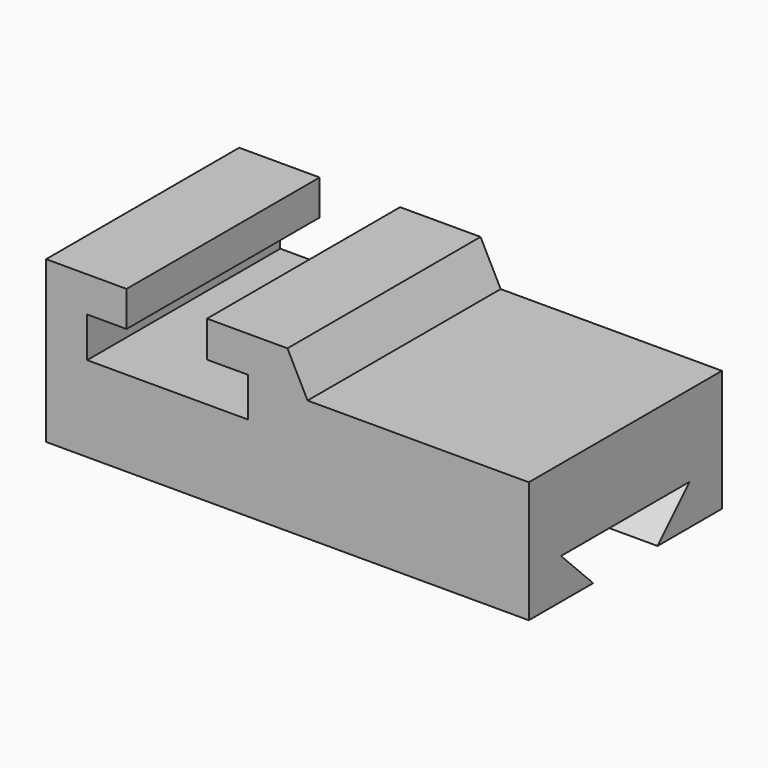
from build123d import *

# Parameters (mm, degrees)
F1_DEPTH = 76.2
F3_DEPTH = 152.4


with BuildPart() as f1:
    # F0 (on Front) → F1 (new body)
    with BuildSketch(Plane.XZ):
        Polygon((0, 50.8), (0, 0), (152.4, 0), (152.4, 38.359179), (82.55, 38.359179), (76.2, 50.8), (50.8, 50.8), (50.8, 39.395914), (63.759179, 39.395914), (63.759179, 26.955098), (12.959179, 26.955098), (12.959179, 39.655098), (25.4, 39.655098), (25.4, 50.8), align=None)
    extrude(amount=F1_DEPTH)

    # F2 (on face) → F3 (cut)
    with BuildSketch(Plane.YZ.offset(152.4)):
        Polygon((-63.5, 12.7), (-50.8, 0), (-25.4, 0), (-12.7, 12.7), align=None)
    extrude(amount=-F3_DEPTH, mode=Mode.SUBTRACT)


solid = f1.part
